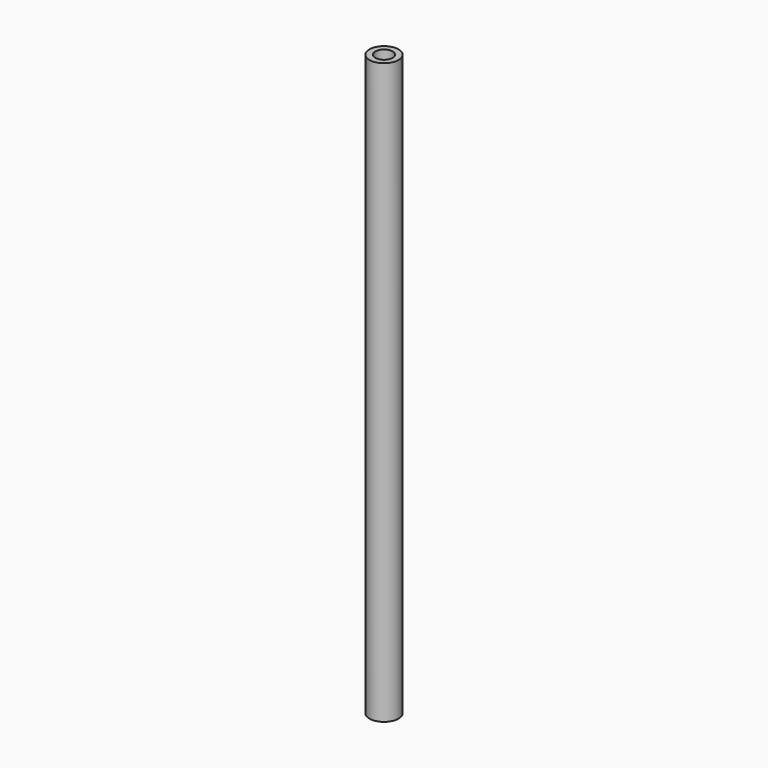
from build123d import *

# Parameters (mm, degrees)
SKETCH_R   = 2.5
SKETCH_R_2 = 1.5
PAD_DEPTH  = 100


with BuildPart() as part:
    # Sketch → Pad (new body)
    with BuildSketch(Plane.XY):
        Circle(SKETCH_R)
        Circle(SKETCH_R_2, mode=Mode.SUBTRACT)
    extrude(amount=PAD_DEPTH)


solid = part.part
